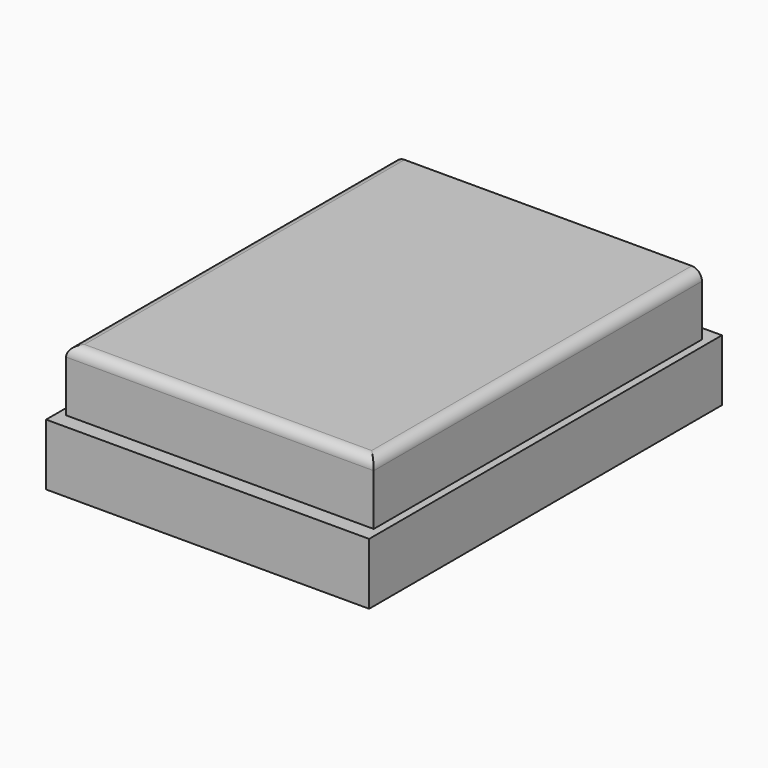
from build123d import *

# Parameters (mm, degrees)
F0_W     = 1524
F0_H     = 2032
F1_DEPTH = 609.6
F2_R     = 50.8
F3_W     = 1600.2
F3_H     = 2184.4
F4_DEPTH = 304.8


with BuildPart() as f1:
    # F0 (on Top) → F1 (new body)
    with BuildSketch(Plane.XY):
        with Locations((-762, 1016)):
            Rectangle(F0_W, F0_H)
    extrude(amount=F1_DEPTH)

    # F2
    f2_edges = [f1.edges().sort_by_distance(p)[0] for p in [
        (-762, 0, 609.6),
        (-1524, 1016, 609.6),
        (0, 1016, 609.6),
    ]]
    fillet(f2_edges, radius=F2_R)

    # F3 (on Top) → F4 (join)
    with BuildSketch(Plane.XY):
        with Locations((-762, 1016)):
            Rectangle(F3_W, F3_H)
    extrude(amount=F4_DEPTH)


solid = f1.part
